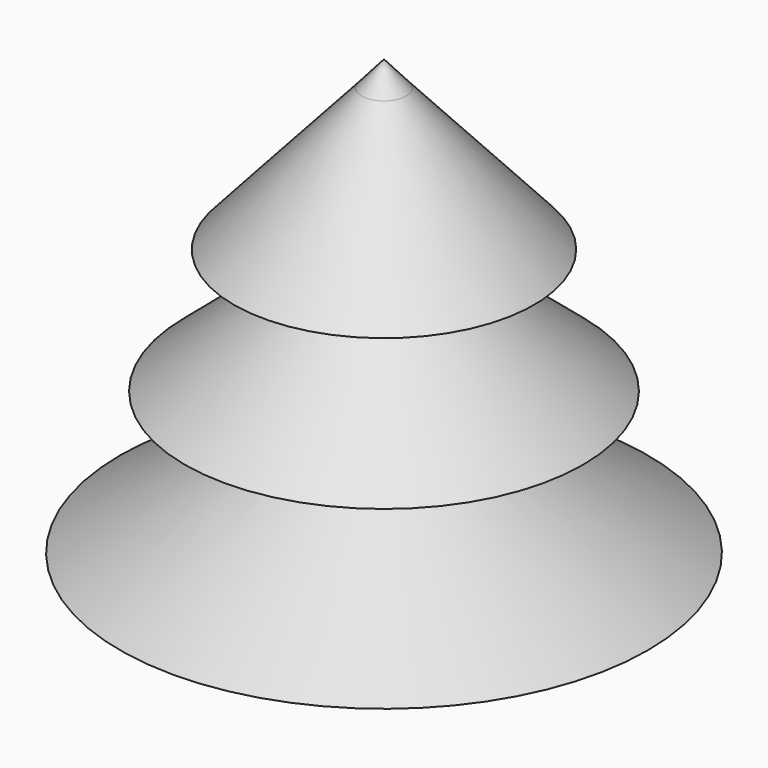
from build123d import *

# Parameters (mm, degrees)
F0_W = 7.311986
F0_H = 15.748894


with BuildPart() as f1:
    # F0 (on Front) → F1 (revolve)
    with BuildSketch(Plane.XZ):
        Polygon((0, 58.074042), (-3.937222, 53.574357), (-26.716871, 28.263638), (-9.280598, 28.263638), (-35.43501, 6.04645), (-7.311986, 6.04645), (-46.96545, -19.264271), (-7.311986, -19.264271), (0, -19.264271), align=None)
        with Locations((-3.655993, -27.138718)):
            Rectangle(F0_W, F0_H)
    revolve(axis=Axis((0, 0, 19.404885), (0, 0, 1)))


solid = f1.part
